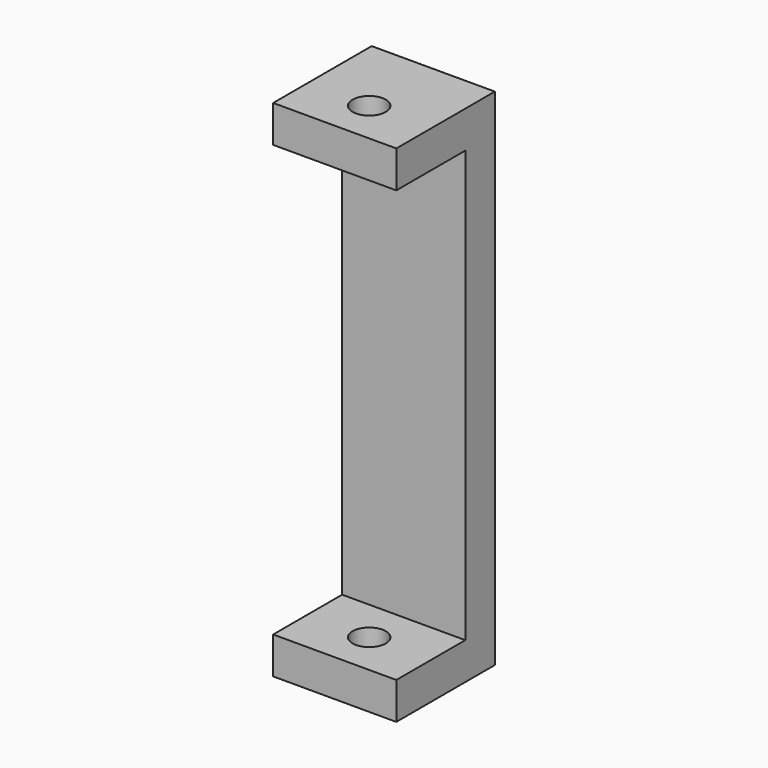
from build123d import *

# Parameters (mm, degrees)
F0_W     = 10
F0_H     = 10
F1_DEPTH = 41
F2_W     = 10
F2_H     = 35
F3_DEPTH = 7
F4_R     = 1.35
F5_DEPTH = 50


with BuildPart() as f1:
    # F0 (on Top) → F1 (new body)
    with BuildSketch(Plane.XY):
        Rectangle(F0_W, F0_H)
        Rectangle(F0_W, F0_H)
    extrude(amount=F1_DEPTH)

    # F2 (on face) → F3 (cut)
    with BuildSketch(Plane.XZ.offset(5)):
        with Locations((0, 20.5)):
            Rectangle(F2_W, F2_H)
    extrude(amount=-F3_DEPTH, mode=Mode.SUBTRACT)

    # F4 (on face) → F5 (cut)
    with BuildSketch(Plane.XY.offset(41)):
        with Locations((0, -1.5)):
            Circle(F4_R)
    extrude(amount=-F5_DEPTH, mode=Mode.SUBTRACT)


solid = f1.part
